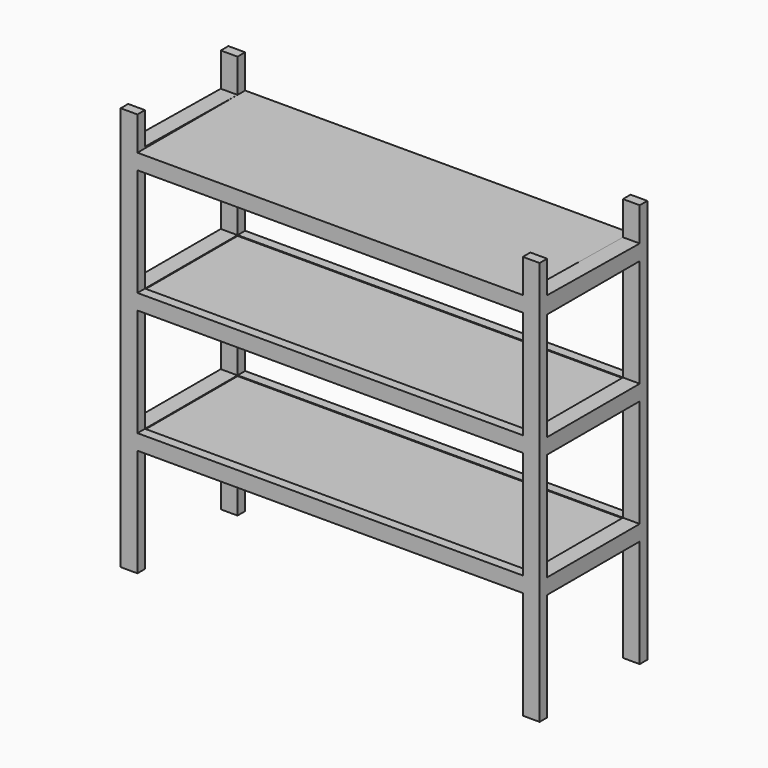
from build123d import *

# Parameters (mm, degrees)
F0_W          = 2617.2294904932
F0_H          = 104.903
F1_DEPTH      = 914.4
F2_W          = 784.9525028229
F2_H          = 733.297
F3_DEPTH      = 113.7862547534
F3_DEPTH_BACK = 5040
F4_W          = 784.9525028229
F4_H          = 733.297
F5_DEPTH      = 113.7862547534
F5_DEPTH_BACK = 3796
F6_W          = 784.9525028229
F6_H          = 733.297
F7_DEPTH      = 113.7862547534
F7_DEPTH_BACK = 4910
F9_DEPTH      = 650
F9_DEPTH_BACK = 3377
F11_DEPTH     = 66
F13_DEPTH     = 77
F15_DEPTH     = 77
F17_DEPTH     = 5
F19_DEPTH     = 5


with BuildPart() as f1:
    # F0 (on Front) → F1 (new body)
    with BuildSketch(Plane.XZ):
        Polygon((-1366.024362839, 2743.2), (-1366.024362839, 0), (-1252.2391080856, 0), (-1252.2391080856, 733.297), (-1252.2391080856, 838.2), (-1252.2391080856, 1571.497), (-1252.2391080856, 1676.4), (-1252.2391080856, 2409.697), (-1252.2391080856, 2514.6), (-1252.2391080856, 2743.2), align=None)
        with Locations((56.375637161, 2462.1485)):
            Rectangle(F0_W, F0_H)
        Polygon((1364.9903824076, 838.2), (1364.9903824076, 733.297), (1364.9903824076, 0), (1478.775637161, 0), (1478.775637161, 2743.2), (1364.9903824076, 2743.2), (1364.9903824076, 2514.6), (1364.9903824076, 2409.697), (1364.9903824076, 1676.4), (1364.9903824076, 1571.497), align=None)
        with Locations((56.375637161, 1623.9485)):
            Rectangle(F0_W, F0_H)
        with Locations((56.375637161, 785.7485)):
            Rectangle(F0_W, F0_H)
    extrude(amount=F1_DEPTH)

    # F2 (on face) → F3 (cut, two sides)
    with BuildSketch(Plane.YZ.offset(-1252.2391080856)) as f3_sk:
        with Locations((-457.2, 2043.0485)):
            Rectangle(F2_W, F2_H)
    extrude(amount=-F3_DEPTH, mode=Mode.SUBTRACT)
    extrude(f3_sk.sketch, amount=F3_DEPTH_BACK, mode=Mode.SUBTRACT)

    # F4 (on face) → F5 (cut, two sides)
    with BuildSketch(Plane.YZ.offset(-1252.2391080856)) as f5_sk:
        with Locations((-457.2, 366.6485)):
            Rectangle(F4_W, F4_H)
    extrude(amount=-F5_DEPTH, mode=Mode.SUBTRACT)
    extrude(f5_sk.sketch, amount=F5_DEPTH_BACK, mode=Mode.SUBTRACT)

    # F6 (on face) → F7 (cut, two sides)
    with BuildSketch(Plane.YZ.offset(-1252.2391080856)) as f7_sk:
        with Locations((-457.2, 1204.8485)):
            Rectangle(F6_W, F6_H)
    extrude(amount=-F7_DEPTH, mode=Mode.SUBTRACT)
    extrude(f7_sk.sketch, amount=F7_DEPTH_BACK, mode=Mode.SUBTRACT)

    # F8 (on face) → F9 (cut, two sides)
    with BuildSketch(Plane.YZ.offset(-1252.2391080856)) as f9_sk:
        Polygon((-850.3850175618, 2743.2), (-850.3850175618, 2524.6608597206), (-64.6533628224, 2514.6482582703), (-64.6533628224, 2743.2), align=None)
    extrude(amount=-F9_DEPTH, mode=Mode.SUBTRACT)
    extrude(f9_sk.sketch, amount=F9_DEPTH_BACK, mode=Mode.SUBTRACT)

    # F10 (on face) → F11 (cut)
    with BuildSketch(Plane(origin=(0, 0, 2409.697), x_dir=(1, 0, 0), z_dir=(0, 0, -1))):
        Polygon((1364.9903824076, 850.4807184756), (-1252.2391080856, 850.4807184756), (-1252.2391080856, 849.6762514114), (-1252.2391080856, 64.7237485886), (-1252.2391080856, 63.9192815244), (1364.9903824076, 63.9192815244), (1364.9903824076, 64.7237485886), (1364.9903824076, 849.6762514114), align=None)
    extrude(amount=-F11_DEPTH, mode=Mode.SUBTRACT)

    # F12 (on face) → F13 (cut)
    with BuildSketch(Plane(origin=(0, 0, 1571.497), x_dir=(1, 0, 0), z_dir=(0, 0, -1))):
        Polygon((1364.9903824076, 850.4807184756), (-1252.2391080856, 850.4807184756), (-1252.2391080856, 849.6762514114), (-1252.2391080856, 64.7237485886), (-1252.2391080856, 63.9192815244), (1364.9903824076, 63.9192815244), (1364.9903824076, 64.7237485886), (1364.9903824076, 849.6762514114), align=None)
    extrude(amount=-F13_DEPTH, mode=Mode.SUBTRACT)

    # F14 (on face) + F3_face1 (on face) → F15 (cut)
    with BuildSketch(Plane(origin=(0, 0, 733.297), x_dir=(1, 0, 0), z_dir=(0, 0, -1))):
        Polygon((1364.9903824076, 850.4807184756), (-1252.2391080856, 850.4807184756), (-1252.2391080856, 849.6762514114), (-1252.2391080856, 64.7237485886), (-1252.2391080856, 63.9192815244), (1364.9903824076, 63.9192815244), (1364.9903824076, 64.7237485886), (1364.9903824076, 849.6762514114), align=None)
    with BuildSketch(Plane(origin=(56.375637161, -457.2, 1676.4), x_dir=(1, 0, 0), z_dir=(0, 0, 1))):
        Polygon((-1308.6147452466, 392.4762514114), (-1422.4, 392.4762514114), (-1422.4, -392.4762514114), (-1308.6147452466, -392.4762514114), (-1308.6147452466, -457.2), (1308.6147452466, -457.2), (1308.6147452466, -392.4762514114), (1422.4, -392.4762514114), (1422.4, 392.4762514114), (1308.6147452466, 392.4762514114), (1308.6147452466, 457.2), (-1308.6147452466, 457.2), align=None)
    extrude(amount=-F15_DEPTH, dir=(0, 0, -1), mode=Mode.SUBTRACT)

    # F16 (on face) → F17 (cut)
    with BuildSketch(Plane.XY.offset(1676.4)):
        Polygon((1364.9903824076, -63.9192815244), (-1252.2391080856, -63.9192815244), (-1252.2391080856, -64.7237485886), (-1252.2391080856, -849.6762514114), (-1252.2391080856, -850.4807184756), (1364.9903824076, -850.4807184756), (1364.9903824076, -849.6762514114), (1364.9903824076, -64.7237485886), align=None)
    extrude(amount=-F17_DEPTH, mode=Mode.SUBTRACT)

    # F18 (on face) → F19 (cut)
    with BuildSketch(Plane.XY.offset(838.2)):
        Polygon((1364.9903824076, -63.9192815244), (-1252.2391080856, -63.9192815244), (-1252.2391080856, -64.7237485886), (-1252.2391080856, -849.6762514114), (-1252.2391080856, -850.4807184756), (1364.9903824076, -850.4807184756), (1364.9903824076, -849.6762514114), (1364.9903824076, -64.7237485886), align=None)
    extrude(amount=-F19_DEPTH, mode=Mode.SUBTRACT)


solid = f1.part
